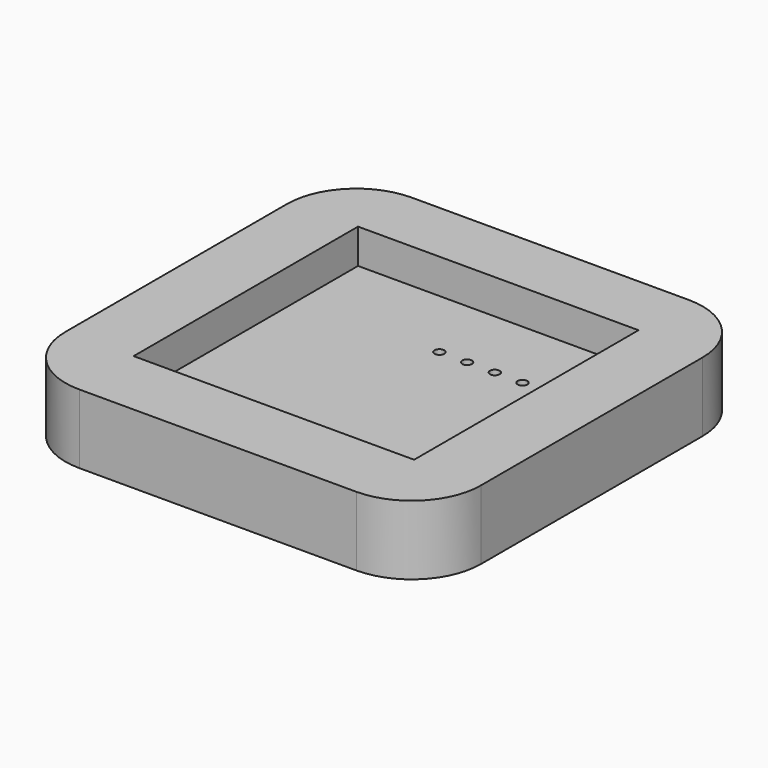
from build123d import *

# Parameters (mm, degrees)
F0_W     = 30
F0_H     = 30
F0_R     = 0.35
F1_DEPTH = 2.5
F2_W     = 30
F2_H     = 30
F2_W_2   = 20.25
F2_H_2   = 20.25
F3_DEPTH = 5
F4_R     = 5


with BuildPart() as f1:
    # F0 (on Top) → F1 (new body)
    with BuildSketch(Plane.XY):
        with Locations((15, 15)):
            Rectangle(F0_W, F0_H)
        with Locations((15, 20)):
            Circle(F0_R, mode=Mode.SUBTRACT)
        with Locations((17, 20)):
            Circle(F0_R, mode=Mode.SUBTRACT)
        with Locations((19, 20)):
            Circle(F0_R, mode=Mode.SUBTRACT)
        with Locations((21, 20)):
            Circle(F0_R, mode=Mode.SUBTRACT)
    extrude(amount=F1_DEPTH)

    # F2 (on Top) → F3 (join)
    with BuildSketch(Plane.XY):
        with Locations((15, 15)):
            Rectangle(F2_W, F2_H)
        with Locations((14.976355, 15.216224)):
            Rectangle(F2_W_2, F2_H_2, mode=Mode.SUBTRACT)
    extrude(amount=F3_DEPTH)

    # F4
    f4_edges = [f1.edges().sort_by_distance(p)[0] for p in [
        (0, 30, 2.5),
        (0, 0, 2.5),
        (30, 30, 2.5),
        (30, 0, 2.5),
    ]]
    fillet(f4_edges, radius=F4_R)


solid = f1.part
